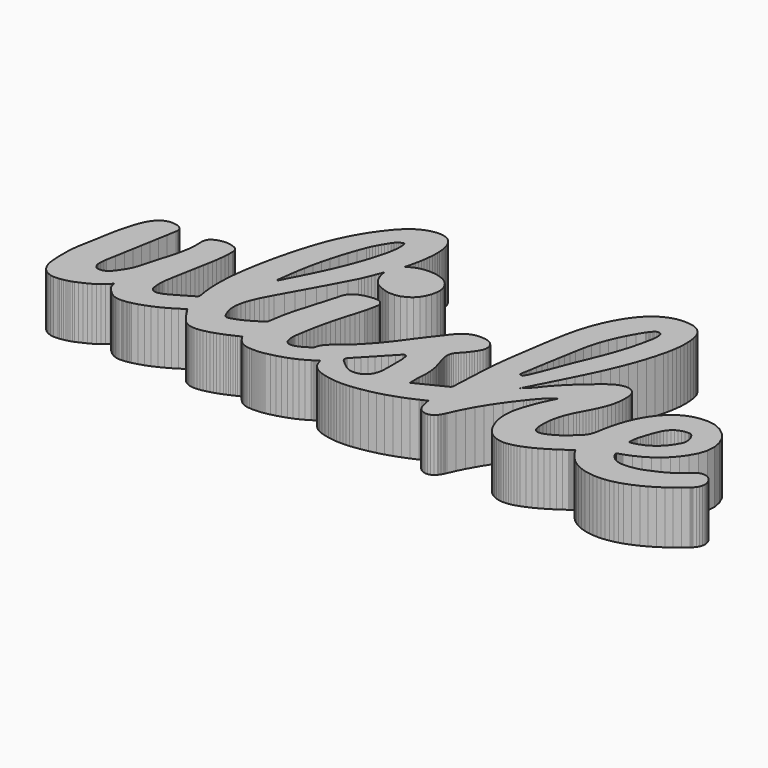
from build123d import *

# Parameters (mm, degrees)
F1_DEPTH = 25
F2_SCALE = 0.12


with BuildPart() as f1:
    # F0 (on Top) → F1 (new body)
    with BuildSketch(Plane.XY):
        Polygon((141.488232, -110.757337), (141.450765, -110.721072), (140.714142, -110.133943), (139.90183, -109.709832), (139.038138, -109.449125), (138.147372, -109.352205), (137.25384, -109.419457), (136.381849, -109.651265), (135.555707, -110.048014), (134.799722, -110.610088), (134.661508, -110.735102), (134.534361, -110.850049), (134.419535, -110.953787), (134.318286, -111.045176), (134.231869, -111.123073), (134.161539, -111.186338), (134.108552, -111.233828), (134.074162, -111.264404), (132.189219, -112.880158), (130.488234, -114.234052), (128.89032, -115.382817), (127.314592, -116.383181), (125.680165, -117.291875), (123.906152, -118.165629), (121.911669, -119.061173), (119.615829, -120.035237), (118.336045, -120.529017), (117.055253, -120.942342), (115.768341, -121.276988), (114.470199, -121.534734), (113.155714, -121.717354), (111.819776, -121.826627), (110.457273, -121.864328), (109.063094, -121.832234), (107.93208, -121.686163), (106.844361, -121.365358), (105.817983, -120.884096), (104.870992, -120.256656), (104.021433, -119.497317), (103.287353, -118.620356), (102.686796, -117.640052), (102.237809, -116.570684), (102.246336, -116.553751), (102.2542, -116.538133), (102.261624, -116.523391), (102.268827, -116.509087), (102.27603, -116.494783), (102.283453, -116.480041), (102.291318, -116.464423), (102.299845, -116.44749), (102.626542, -116.340246), (102.95369, -116.23431), (103.281043, -116.128982), (103.608355, -116.023558), (103.93538, -115.917337), (104.261873, -115.809617), (104.587587, -115.699697), (104.912276, -115.586873), (108.338302, -114.233726), (111.56787, -112.651614), (114.588501, -110.825884), (117.387713, -108.741879), (119.953025, -106.384945), (122.271957, -103.740427), (124.332027, -100.793669), (126.120754, -97.530017), (127.389806, -93.685918), (127.622476, -89.821266), (126.913682, -86.0967), (125.358342, -82.672863), (123.051374, -79.710394), (120.087696, -77.369933), (116.562225, -75.812123), (112.56988, -75.197603), (109.868666, -75.294357), (107.323597, -75.695595), (104.929514, -76.390089), (102.681258, -77.366612), (100.57367, -78.613935), (98.60159, -80.120831), (96.759859, -81.876071), (95.043319, -83.868428), (93.230551, -86.397615), (91.663757, -89.031898), (90.321407, -91.759604), (89.181968, -94.569058), (88.223909, -97.448588), (87.425699, -100.386518), (86.765807, -103.371177), (86.222701, -106.390889), (86.037455, -107.433668), (85.816371, -108.427357), (85.54233, -109.370922), (85.198211, -110.263325), (84.766894, -111.103533), (84.231258, -111.890507), (83.574183, -112.623215), (82.778548, -113.300618), (82.662647, -113.393404), (82.552006, -113.493146), (82.445297, -113.598129), (82.341193, -113.706639), (82.238369, -113.816963), (82.135496, -113.927388), (82.031249, -114.036199), (81.9243, -114.141682), (80.787791, -115.197569), (79.627018, -116.217893), (78.434484, -117.190898), (77.202689, -118.104825), (75.924137, -118.947915), (74.59133, -119.708412), (73.196768, -120.374556), (71.732955, -120.93459), (70.593705, -121.244259), (69.612817, -121.352573), (68.78336, -121.255877), (68.098403, -120.950513), (67.551016, -120.432823), (67.134267, -119.699152), (66.841226, -118.745841), (66.664962, -117.569234), (66.660923, -117.524428), (66.657129, -117.479596), (66.653569, -117.434741), (66.65023, -117.389867), (66.647099, -117.344975), (66.644165, -117.300069), (66.641416, -117.255151), (66.638839, -117.210225), (66.59041, -115.127303), (66.677492, -113.072649), (66.89907, -111.046246), (67.254127, -109.048077), (67.741646, -107.078127), (68.360611, -105.136379), (69.110006, -103.222816), (69.988814, -101.337422), (70.567212, -100.203815), (71.154351, -99.074523), (71.746483, -97.947717), (72.339858, -96.821568), (72.930727, -95.694246), (73.51534, -94.563922), (74.089948, -93.428765), (74.650802, -92.286946), (75.425448, -90.557042), (76.089028, -88.802613), (76.636797, -87.023654), (77.06401, -85.220158), (77.365921, -83.392121), (77.537786, -81.539536), (77.574859, -79.662398), (77.472396, -77.760701), (77.228999, -76.422091), (76.769891, -75.25773), (76.114565, -74.281986), (75.282516, -73.509228), (74.293236, -72.953825), (73.166219, -72.630146), (71.920959, -72.552559), (70.576949, -72.735432), (70.145465, -72.842941), (69.715385, -72.967235), (69.288257, -73.107801), (68.86563, -73.264127), (68.449052, -73.435698), (68.040069, -73.622003), (67.64023, -73.822529), (67.251083, -74.036763), (66.736995, -74.340682), (66.228479, -74.656466), (65.726122, -74.983692), (65.230514, -75.321934), (64.742241, -75.670768), (64.261891, -76.029769), (63.790054, -76.398511), (63.327315, -76.77657), (61.188868, -78.5761), (59.072487, -80.39612), (56.988348, -82.246994), (54.946629, -84.139086), (52.957507, -86.082759), (51.03116, -88.088377), (49.177763, -90.166304), (47.407495, -92.326904), (46.951429, -92.91352), (46.617779, -93.345573), (46.360264, -93.674204), (46.132608, -93.950558), (45.888532, -94.225779), (45.581756, -94.551009), (45.166004, -94.977391), (44.594995, -95.55607), (44.393212, -95.774023), (44.119288, -96.049185), (43.793478, -96.364599), (43.436034, -96.703307), (43.06721, -97.048349), (42.70726, -97.382768), (42.376437, -97.689606), (42.094995, -97.951904), (42.197484, -97.756147), (42.317509, -97.527283), (42.448497, -97.277566), (42.583874, -97.019251), (42.717069, -96.764592), (42.841508, -96.525844), (42.950618, -96.315262), (43.037826, -96.1451), (44.568479, -93.143543), (46.106276, -90.145426), (47.646257, -87.148357), (49.183463, -84.149945), (50.712936, -81.1478), (52.229717, -78.13953), (53.728847, -75.122744), (55.205367, -72.095052), (56.868589, -68.5722), (58.464919, -65.022179), (59.984506, -61.441849), (61.417495, -57.828069), (62.754033, -54.177695), (63.984267, -50.487588), (65.098344, -46.754605), (66.08641, -42.975606), (66.546907, -40.949303), (66.938813, -38.918317), (67.249641, -36.881768), (67.466903, -34.83878), (67.578112, -32.788473), (67.570783, -30.72997), (67.432427, -28.662391), (67.150558, -26.584859), (66.752061, -24.911148), (66.163074, -23.409951), (65.3876, -22.088695), (64.429641, -20.954808), (63.2932, -20.015716), (61.98228, -19.278847), (60.500883, -18.751629), (58.853011, -18.441487), (57.633677, -18.333476), (56.419349, -18.292749), (55.211395, -18.322525), (54.011184, -18.426022), (52.820082, -18.606461), (51.639457, -18.867061), (50.470677, -19.211042), (49.315108, -19.641621), (47.548569, -20.46998), (45.89977, -21.435962), (44.360431, -22.528847), (42.922271, -23.737912), (41.577008, -25.052437), (40.316362, -26.461702), (39.13205, -27.954985), (38.015792, -29.521565), (36.296931, -32.229059), (34.752971, -35.010729), (33.373056, -37.860681), (32.146331, -40.773022), (31.061942, -43.741861), (30.109035, -46.761303), (29.276754, -49.825455), (28.554244, -52.928426), (28.09392, -55.155576), (27.66605, -57.390011), (27.265676, -59.630452), (26.887839, -61.875623), (26.527584, -64.124247), (26.179953, -66.375047), (25.839987, -68.626748), (25.50273, -70.878072), (25.150418, -73.219167), (24.799404, -75.561285), (24.455471, -77.90472), (24.124396, -80.249768), (23.811962, -82.596724), (23.523947, -84.945884), (23.266131, -87.297544), (23.044295, -89.651997), (22.824156, -92.458369), (22.63901, -95.26773), (22.480646, -98.079396), (22.340858, -100.892682), (22.211434, -103.706903), (22.084168, -106.521375), (21.950848, -109.335414), (21.803268, -112.148335), (21.782244, -112.296414), (21.737217, -112.45288), (21.671426, -112.611591), (21.588111, -112.766408), (21.490511, -112.911188), (21.381865, -113.03979), (21.265412, -113.146073), (21.144393, -113.223897), (19.43626, -114.081054), (17.726779, -114.933755), (16.017052, -115.782398), (14.308181, -116.627385), (12.601267, -117.469116), (10.897411, -118.307992), (9.197714, -119.144413), (7.50328, -119.97878), (7.496759, -119.274712), (7.481214, -118.566376), (7.462667, -117.854865), (7.447143, -117.14127), (7.440665, -116.426686), (7.449258, -115.712205), (7.478945, -114.998919), (7.535751, -114.287923), (7.666819, -112.673614), (7.726195, -111.069383), (7.708897, -109.474773), (7.609939, -107.889325), (7.424338, -106.312583), (7.147109, -104.744091), (6.77327, -103.18339), (6.297835, -101.630025), (6.089846, -100.991147), (5.896949, -100.347108), (5.715908, -99.699023), (5.543487, -99.048009), (5.37645, -98.39518), (5.211562, -97.741654), (5.045587, -97.088546), (4.875289, -96.43697), (4.680777, -95.536566), (4.591286, -94.671819), (4.612002, -93.839038), (4.748115, -93.034528), (5.004811, -92.254597), (5.387278, -91.495552), (5.900704, -90.7537), (6.550277, -90.025349), (7.251427, -89.295627), (7.930223, -88.539693), (8.586659, -87.760252), (9.220733, -86.960011), (9.832439, -86.141678), (10.421773, -85.307957), (10.988731, -84.461557), (11.533309, -83.605183), (12.098876, -82.4356), (12.408419, -81.179952), (12.43873, -79.898717), (12.166602, -78.652371), (11.56883, -77.501392), (10.622208, -76.506256), (9.303528, -75.72744), (7.589584, -75.225423), (5.706656, -75.004058), (3.929982, -75.030462), (2.256303, -75.300386), (0.682357, -75.809582), (-0.795115, -76.553803), (-2.179374, -77.528801), (-3.473679, -78.730327), (-4.68129, -80.154134), (-6.009572, -81.893896), (-7.343396, -83.629659), (-8.679022, -85.36412), (-10.012711, -87.099973), (-11.340724, -88.839914), (-12.659322, -90.586639), (-13.964764, -92.342845), (-15.253312, -94.111226), (-17.315924, -96.908601), (-19.441038, -99.644674), (-21.639333, -102.310356), (-23.921487, -104.896558), (-26.298177, -107.394191), (-28.780083, -109.794166), (-31.377881, -112.087396), (-34.10225, -114.26479), (-34.758643, -114.791851), (-35.375819, -115.35486), (-35.944938, -115.957613), (-36.457159, -116.603903), (-36.903641, -117.297522), (-37.275543, -118.042267), (-37.564025, -118.841929), (-37.760245, -119.700302), (-37.775765, -119.766969), (-37.800177, -119.8364), (-37.832334, -119.906506), (-37.871085, -119.975204), (-37.915284, -120.040406), (-37.963781, -120.100027), (-38.015427, -120.15198), (-38.069074, -120.19418), (-38.950437, -120.793552), (-39.834641, -121.387541), (-40.730364, -121.957663), (-41.646288, -122.485434), (-42.591092, -122.95237), (-43.573457, -123.339985), (-44.602062, -123.629797), (-45.685588, -123.803319), (-46.260231, -123.801982), (-46.808846, -123.690363), (-47.320415, -123.478832), (-47.783918, -123.177759), (-48.188337, -122.797511), (-48.522653, -122.348459), (-48.775847, -121.840971), (-48.936901, -121.285417), (-49.033443, -120.772043), (-49.12266, -120.253532), (-49.19958, -119.732118), (-49.25923, -119.210035), (-49.296636, -118.689517), (-49.306826, -118.172797), (-49.284826, -117.662109), (-49.225663, -117.159688), (-48.924625, -115.283383), (-48.617525, -113.407172), (-48.30039, -111.532291), (-47.969247, -109.659978), (-47.620122, -107.79147), (-47.249042, -105.928004), (-46.852035, -104.070818), (-46.425126, -102.22115), (-45.896966, -100.102306), (-45.337324, -97.991068), (-44.753817, -95.88557), (-44.154061, -93.783948), (-43.545674, -91.684337), (-42.936272, -89.584873), (-42.333471, -87.483691), (-41.744889, -85.378926), (-41.55236, -84.663084), (-41.367786, -83.944481), (-41.191834, -83.223346), (-41.025169, -82.499907), (-40.868457, -81.774392), (-40.722364, -81.047029), (-40.587557, -80.318048), (-40.464701, -79.587675), (-40.415835, -78.74616), (-40.536482, -77.965792), (-40.812478, -77.262225), (-41.229661, -76.651114), (-41.773865, -76.148115), (-42.430929, -75.768881), (-43.186688, -75.529068), (-44.02698, -75.44433), (-44.750977, -75.456109), (-45.478535, -75.494426), (-46.20729, -75.558869), (-46.934875, -75.649024), (-47.658925, -75.764479), (-48.377075, -75.904819), (-49.086958, -76.069632), (-49.78621, -76.258504), (-50.980799, -76.661412), (-52.088881, -77.162789), (-53.096298, -77.773051), (-53.988892, -78.502614), (-54.752506, -79.361896), (-55.372981, -80.361314), (-55.83616, -81.511284), (-56.127885, -82.822224), (-56.163784, -83.026814), (-56.210585, -83.229834), (-56.265861, -83.431633), (-56.327187, -83.632558), (-56.392139, -83.832956), (-56.45829, -84.033175), (-56.523215, -84.233563), (-56.584489, -84.434468), (-57.304453, -86.890444), (-58.030272, -89.344869), (-58.757565, -91.798907), (-59.48195, -94.25372), (-60.199044, -96.71047), (-60.904467, -99.170318), (-61.593837, -101.634429), (-62.262772, -104.103963), (-62.562416, -105.3215), (-62.823427, -106.549238), (-63.055177, -107.784759), (-63.267037, -109.025647), (-63.468377, -110.269484), (-63.668568, -111.513855), (-63.876979, -112.756341), (-64.102982, -113.994527), (-64.145529, -114.163274), (-64.207965, -114.335663), (-64.28813, -114.50722), (-64.383866, -114.673474), (-64.493015, -114.829952), (-64.613417, -114.972181), (-64.742915, -115.095689), (-64.87935, -115.196004), (-65.716343, -115.721831), (-66.553963, -116.247688), (-67.393641, -116.770552), (-68.23681, -117.287396), (-69.084903, -117.795197), (-69.939352, -118.29093), (-70.80159, -118.771569), (-71.673051, -119.23409), (-72.299605, -119.541194), (-72.93861, -119.825239), (-73.587827, -120.089773), (-74.245019, -120.338345), (-74.907947, -120.574503), (-75.574373, -120.801796), (-76.24206, -121.023771), (-76.908769, -121.243977), (-77.283163, -121.345716), (-77.648891, -121.396991), (-78.002527, -121.392209), (-78.340646, -121.32578), (-78.659821, -121.192111), (-78.956629, -120.98561), (-79.227643, -120.700686), (-79.469437, -120.331746), (-80.008121, -119.268434), (-80.465385, -118.189483), (-80.837309, -117.094012), (-81.119973, -115.981137), (-81.309456, -114.849978), (-81.401838, -113.699651), (-81.393199, -112.529277), (-81.279618, -111.337971), (-80.921767, -109.367732), (-80.419035, -107.455492), (-79.791455, -105.592949), (-79.05906, -103.771802), (-78.241885, -101.983748), (-77.359962, -100.220485), (-76.433326, -98.473713), (-75.482011, -96.735127), (-73.433367, -93.025015), (-71.380771, -89.316734), (-69.329871, -85.607416), (-67.286317, -81.894192), (-65.255757, -78.174197), (-63.243842, -74.444563), (-61.256219, -70.702421), (-59.298539, -66.944905), (-58.798741, -65.906618), (-58.263249, -64.683306), (-57.706946, -63.335504), (-57.144715, -61.923741), (-56.591439, -60.508551), (-56.062001, -59.150466), (-55.571284, -57.910017), (-55.134171, -56.847737), (-54.922465, -58.057644), (-54.654355, -59.238443), (-54.31909, -60.384747), (-53.90592, -61.491167), (-53.404094, -62.552315), (-52.802861, -63.562801), (-52.091471, -64.517238), (-51.259171, -65.410237), (-50.56725, -65.959719), (-49.698254, -66.478886), (-48.704521, -66.961318), (-47.63839, -67.400594), (-46.552202, -67.790293), (-45.498293, -68.123997), (-44.529003, -68.395285), (-43.696671, -68.597737), (-40.899086, -68.588715), (-38.376713, -68.076849), (-36.146065, -67.108376), (-34.223657, -65.729535), (-32.626, -63.986563), (-31.369608, -61.925697), (-30.470994, -59.593176), (-29.946671, -57.035237), (-29.899324, -55.085162), (-30.234478, -53.258189), (-30.917216, -51.579746), (-31.912621, -50.075261), (-33.185778, -48.77016), (-34.701769, -47.689872), (-36.425677, -46.859822), (-38.322587, -46.30544), (-38.911107, -46.190748), (-39.5047, -46.089804), (-40.102124, -46.00373), (-40.702142, -45.933644), (-41.303512, -45.880667), (-41.904997, -45.845919), (-42.505355, -45.830521), (-43.103349, -45.835591), (-44.411592, -45.911859), (-45.673174, -46.073537), (-46.884769, -46.324719), (-48.043053, -46.669499), (-49.144704, -47.111972), (-50.186397, -47.656232), (-51.164809, -48.306372), (-52.076615, -49.066487), (-51.714452, -47.748109), (-51.375038, -46.422333), (-51.059209, -45.088961), (-50.7678, -43.7478), (-50.501645, -42.398653), (-50.261579, -41.041326), (-50.048437, -39.675624), (-49.863053, -38.30135), (-49.697769, -36.853838), (-49.56879, -35.405837), (-49.487343, -33.958045), (-49.464654, -32.511159), (-49.511948, -31.065875), (-49.640451, -29.622889), (-49.86139, -28.182899), (-50.18599, -26.746602), (-50.732012, -25.118278), (-51.451624, -23.696779), (-52.342292, -22.489429), (-53.401482, -21.503552), (-54.626661, -20.746475), (-56.015293, -20.225521), (-57.564845, -19.948016), (-59.272782, -19.921284), (-60.047405, -19.986565), (-60.825319, -20.09328), (-61.602891, -20.238822), (-62.376489, -20.420583), (-63.142478, -20.635955), (-63.897228, -20.882331), (-64.637105, -21.157102), (-65.358476, -21.457661), (-66.717347, -22.124178), (-68.00506, -22.889221), (-69.227211, -23.74296), (-70.389397, -24.675565), (-71.497216, -25.677202), (-72.556263, -26.738043), (-73.572136, -27.848254), (-74.550431, -28.998006), (-76.88623, -31.983986), (-79.053773, -35.063632), (-81.058466, -38.232939), (-82.905717, -41.487904), (-84.600933, -44.824523), (-86.149522, -48.238791), (-87.55689, -51.726705), (-88.828446, -55.284261), (-90.049988, -59.063082), (-91.18643, -62.863612), (-92.239829, -66.685368), (-93.212243, -70.527867), (-94.10573, -74.390628), (-94.922348, -78.273169), (-95.664154, -82.175008), (-96.333207, -86.095662), (-96.84987, -89.58455), (-97.263434, -93.07076), (-97.556902, -96.555436), (-97.713273, -100.039723), (-97.71555, -103.524766), (-97.546733, -107.011708), (-97.189824, -110.501694), (-96.627824, -113.995869), (-96.619678, -114.134005), (-96.64121, -114.289052), (-96.688316, -114.452922), (-96.75689, -114.617528), (-96.842828, -114.774781), (-96.942024, -114.916592), (-97.050374, -115.034875), (-97.163773, -115.121541), (-98.410359, -115.862008), (-99.658395, -116.600225), (-100.908468, -117.335045), (-102.161164, -118.06532), (-103.417071, -118.789904), (-104.676774, -119.507652), (-105.94086, -120.217416), (-107.209916, -120.91805), (-107.596175, -121.112768), (-107.996629, -121.284831), (-108.408584, -121.436906), (-108.829343, -121.571656), (-109.25621, -121.691748), (-109.686491, -121.799846), (-110.117488, -121.898616), (-110.546507, -121.990723), (-111.178262, -122.05856), (-111.786166, -122.000255), (-112.355471, -121.825357), (-112.871428, -121.543413), (-113.319286, -121.163973), (-113.684296, -120.696584), (-113.951708, -120.150795), (-114.106774, -119.536154), (-114.21454, -118.76311), (-114.310502, -117.983373), (-114.389235, -117.199617), (-114.445317, -116.414517), (-114.473324, -115.630748), (-114.467835, -114.850984), (-114.423425, -114.077899), (-114.334672, -113.314168), (-114.002811, -111.16923), (-113.648602, -109.027587), (-113.276444, -106.888601), (-112.890733, -104.751637), (-112.495866, -102.616058), (-112.096242, -100.481227), (-111.696257, -98.346507), (-111.300309, -96.211262), (-110.908116, -94.105872), (-110.517321, -92.000896), (-110.14534, -89.89379), (-109.809594, -87.78201), (-109.527501, -85.663011), (-109.316479, -83.53425), (-109.193947, -81.393182), (-109.177323, -79.237263), (-109.226359, -78.56415), (-109.346746, -77.953575), (-109.539605, -77.40423), (-109.806054, -76.914807), (-110.147213, -76.483998), (-110.564201, -76.110494), (-111.058138, -75.792988), (-111.630143, -75.530171), (-112.838731, -75.129988), (-114.043072, -74.863708), (-115.242153, -74.731638), (-116.43496, -74.734082), (-117.620481, -74.871346), (-118.797701, -75.143736), (-119.965607, -75.551556), (-121.123185, -76.095113), (-121.702862, -76.469449), (-122.177277, -76.919509), (-122.552662, -77.446039), (-122.835254, -78.049788), (-123.031285, -78.731504), (-123.146989, -79.491936), (-123.188602, -80.331831), (-123.162356, -81.251938), (-123.132646, -84.190356), (-123.371326, -87.076233), (-123.831074, -89.927053), (-124.464567, -92.760303), (-125.224484, -95.593468), (-126.0635, -98.444036), (-126.934294, -101.32949), (-127.789543, -104.267317), (-128.220048, -105.867871), (-128.603815, -107.3549), (-128.979921, -108.758101), (-129.387448, -110.107172), (-129.865473, -111.431807), (-130.453077, -112.761704), (-131.189339, -114.12656), (-132.113338, -115.55607), (-132.65975, -116.34905), (-133.221867, -117.158429), (-133.812736, -117.954987), (-134.445405, -118.709503), (-135.132919, -119.392756), (-135.888326, -119.975527), (-136.724672, -120.428594), (-137.655005, -120.722737), (-138.297262, -120.824921), (-138.904805, -120.852408), (-139.473923, -120.798931), (-140.000909, -120.658223), (-140.482052, -120.424016), (-140.913644, -120.090045), (-141.291976, -119.650041), (-141.613338, -119.097737), (-141.849236, -118.452193), (-141.994132, -117.728533), (-142.061591, -116.950365), (-142.065175, -116.141294), (-142.018449, -115.324928), (-141.934974, -114.524872), (-141.828315, -113.764734), (-141.712035, -113.068121), (-140.93467, -108.682927), (-140.183008, -104.433954), (-139.448823, -100.275732), (-138.723886, -96.162796), (-137.999967, -92.049675), (-137.268837, -87.890904), (-136.52227, -83.641014), (-135.752035, -79.254538), (-135.699423, -78.591258), (-135.770352, -77.947884), (-135.955694, -77.337717), (-136.246318, -76.774057), (-136.633096, -76.270205), (-137.1069, -75.839463), (-137.6586, -75.495131), (-138.279068, -75.25051), (-139.837896, -74.895), (-141.304838, -74.767626), (-142.683087, -74.870384), (-143.975838, -75.205268), (-145.186284, -75.774273), (-146.317618, -76.579394), (-147.373036, -77.622626), (-148.355729, -78.905965), (-149.054232, -80.034429), (-149.662024, -81.198032), (-150.193069, -82.392052), (-150.661331, -83.611767), (-151.080772, -84.852457), (-151.465357, -86.109399), (-151.829047, -87.377873), (-152.185807, -88.653157), (-152.67152, -90.480536), (-153.097325, -92.264425), (-153.475323, -94.020106), (-153.817613, -95.76286), (-154.136293, -97.507969), (-154.443463, -99.270714), (-154.751223, -101.066376), (-155.071671, -102.910237), (-155.391711, -104.643928), (-155.734915, -106.422014), (-156.080631, -108.231842), (-156.408212, -110.060757), (-156.697005, -111.896108), (-156.926361, -113.725239), (-157.07563, -115.535497), (-157.124162, -117.314229), (-157.123325, -118.615693), (-157.127, -119.920419), (-157.125101, -121.226168), (-157.107545, -122.530705), (-157.064245, -123.831792), (-156.985116, -125.12719), (-156.860073, -126.414664), (-156.679032, -127.691975), (-156.189986, -129.682922), (-155.437771, -131.438525), (-154.441114, -132.939906), (-153.218743, -134.168187), (-151.789386, -135.104489), (-150.17177, -135.729934), (-148.384623, -136.025642), (-146.446671, -135.972737), (-145.69105, -135.874355), (-144.869209, -135.746357), (-144.005389, -135.590077), (-143.12383, -135.406846), (-142.248772, -135.197997), (-141.404455, -134.964863), (-140.615119, -134.708777), (-139.905005, -134.43107), (-138.399894, -133.771601), (-136.875959, -133.078958), (-135.35538, -132.3401), (-133.860338, -131.541991), (-132.41301, -130.67159), (-131.035578, -129.71586), (-129.750221, -128.661762), (-128.579118, -127.496256), (-128.465615, -127.368624), (-128.352296, -127.237778), (-128.237294, -127.102306), (-128.11874, -126.960793), (-127.994768, -126.811827), (-127.863511, -126.653993), (-127.723101, -126.485879), (-127.571671, -126.30607), (-127.504897, -126.566886), (-127.445723, -126.809958), (-127.391708, -127.037288), (-127.340409, -127.250879), (-127.289385, -127.452735), (-127.236194, -127.644858), (-127.178393, -127.829249), (-127.113541, -128.007914), (-126.780305, -128.779905), (-126.434117, -129.442381), (-126.075483, -130.013592), (-125.70491, -130.511787), (-125.322902, -130.955216), (-124.929967, -131.362129), (-124.52661, -131.750775), (-124.113338, -132.139404), (-123.5096, -132.682197), (-122.838915, -133.216485), (-122.097626, -133.719793), (-121.282076, -134.169645), (-120.388607, -134.543568), (-119.413563, -134.819085), (-118.353285, -134.973722), (-117.204118, -134.985005), (-116.653038, -134.948162), (-116.101458, -134.900043), (-115.550145, -134.840399), (-114.999863, -134.768979), (-114.451378, -134.685534), (-113.905455, -134.589815), (-113.36286, -134.481572), (-112.824357, -134.360554), (-110.314882, -133.68445), (-107.867996, -132.871891), (-105.479165, -131.933079), (-103.143853, -130.878217), (-100.857525, -129.717505), (-98.615644, -128.461145), (-96.413677, -127.11934), (-94.247086, -125.70229), (-94.141778, -125.63292), (-94.037992, -125.567398), (-93.938975, -125.507018), (-93.84797, -125.453076), (-93.768223, -125.406868), (-93.70298, -125.369688), (-93.655485, -125.342832), (-93.628983, -125.327595), (-93.00958, -126.24055), (-92.403958, -127.150531), (-91.806021, -128.054615), (-91.209672, -128.949879), (-90.608814, -129.833403), (-89.99735, -130.702262), (-89.369183, -131.553534), (-88.718217, -132.384297), (-87.958458, -133.221597), (-87.136964, -133.935361), (-86.254747, -134.524361), (-85.312821, -134.98737), (-84.312199, -135.323161), (-83.253892, -135.530507), (-82.138914, -135.608179), (-80.968278, -135.554951), (-79.603417, -135.385488), (-78.257195, -135.153586), (-76.928026, -134.864124), (-75.61432, -134.521977), (-74.31449, -134.132023), (-73.026948, -133.699137), (-71.750106, -133.228198), (-70.482377, -132.72408), (-69.661855, -132.380327), (-68.845546, -132.026599), (-68.032638, -131.665154), (-67.222321, -131.298253), (-66.413784, -130.928153), (-65.606215, -130.557112), (-64.798804, -130.187391), (-63.990739, -129.821248), (-63.194475, -131.101461), (-62.37978, -132.201575), (-61.528983, -133.128542), (-60.624413, -133.889317), (-59.648401, -134.490853), (-58.583277, -134.940104), (-57.411368, -135.244024), (-56.115006, -135.409566), (-55.239673, -135.461601), (-54.358206, -135.490363), (-53.473416, -135.493802), (-52.588113, -135.469868), (-51.705107, -135.416512), (-50.827209, -135.331683), (-49.957229, -135.213331), (-49.097978, -135.059407), (-46.867218, -134.57458), (-44.668004, -134.021374), (-42.503666, -133.390086), (-40.377534, -132.67101), (-38.292938, -131.854441), (-36.253209, -130.930676), (-34.261677, -129.89001), (-32.321671, -128.722737), (-31.964961, -128.491507), (-31.614039, -128.261768), (-31.266042, -128.031883), (-30.918109, -127.800216), (-30.567378, -127.565131), (-30.210987, -127.324989), (-29.846074, -127.078156), (-29.469777, -126.822993), (-28.831681, -128.865056), (-27.965816, -130.542358), (-26.884486, -131.900808), (-25.599994, -132.986313), (-24.124643, -133.844781), (-22.470736, -134.522121), (-20.650577, -135.064241), (-18.676469, -135.517049), (-17.20635, -135.782657), (-15.733641, -135.975048), (-14.258675, -136.099093), (-12.781785, -136.159665), (-11.303304, -136.161634), (-9.823565, -136.109873), (-8.342903, -136.009252), (-6.861649, -135.864644), (-3.545645, -135.415605), (-0.272858, -134.816697), (2.958592, -134.074778), (6.150588, -133.196706), (9.305014, -132.189338), (12.423751, -131.059533), (15.508682, -129.814148), (18.56169, -128.460042), (18.961, -128.272362), (19.359784, -128.079997), (19.75979, -127.883189), (20.162765, -127.682179), (20.570454, -127.47721), (20.984605, -127.268523), (21.406964, -127.05636), (21.839278, -126.840962), (21.86502, -127.077103), (21.886011, -127.299333), (21.904489, -127.509235), (21.922691, -127.708386), (21.942852, -127.898368), (21.967209, -128.080761), (21.997999, -128.257144), (22.03746, -128.429097), (22.173754, -128.977356), (22.301966, -129.53023), (22.428548, -130.084448), (22.559954, -130.636739), (22.702637, -131.18383), (22.86305, -131.72245), (23.047647, -132.249328), (23.26288, -132.761192), (23.963391, -133.864116), (24.882156, -134.698943), (25.957901, -135.259211), (27.129351, -135.538457), (28.335231, -135.530218), (29.514269, -135.22803), (30.605189, -134.625431), (31.546719, -133.715958), (31.824062, -133.351469), (32.088099, -132.973918), (32.338911, -132.584988), (32.576576, -132.186365), (32.801177, -131.779734), (33.012791, -131.366781), (33.2115, -130.949189), (33.397384, -130.528645), (34.996249, -126.968749), (36.686727, -123.570616), (38.474917, -120.302588), (40.366917, -117.13301), (42.368826, -114.030226), (44.486743, -110.962579), (46.726767, -107.898412), (49.094995, -104.80607), (49.881349, -103.803065), (50.619715, -102.8759), (51.335588, -102.001965), (52.054468, -101.15865), (52.801851, -100.323347), (53.603235, -99.473444), (54.484117, -98.586333), (55.469995, -97.639404), (55.718813, -97.409469), (56.051307, -97.11068), (56.443638, -96.76811), (56.871966, -96.406829), (57.312454, -96.051909), (57.741264, -95.72842), (58.134555, -95.461433), (58.46849, -95.276021), (57.565372, -97.032158), (56.701566, -98.801384), (55.877182, -100.584461), (55.09233, -102.382153), (54.347121, -104.195223), (53.641664, -106.024435), (52.976069, -107.870551), (52.350448, -109.734334), (51.706548, -112.006023), (51.254048, -114.266743), (51.002879, -116.51634), (50.962974, -118.754658), (51.144263, -120.981544), (51.556677, -123.196843), (52.210148, -125.4004), (53.114608, -127.592061), (53.835301, -128.990712), (54.643896, -130.298314), (55.551149, -131.499623), (56.567817, -132.579396), (57.704656, -133.522389), (58.972424, -134.313359), (60.381876, -134.937062), (61.943771, -135.378255), (63.106342, -135.561006), (64.258871, -135.626879), (65.401843, -135.588186), (66.535743, -135.457234), (67.661057, -135.246334), (68.778271, -134.967795), (69.88787, -134.633927), (70.99034, -134.257039), (73.139261, -133.417476), (75.228627, -132.472067), (77.265531, -131.433436), (79.257064, -130.314206), (81.210316, -129.127001), (83.132379, -127.884445), (85.030343, -126.599161), (86.9113, -125.283772), (87.161534, -125.10645), (87.411975, -124.928441), (87.663142, -124.749493), (87.915557, -124.569356), (88.16974, -124.387776), (88.426211, -124.204503), (88.685493, -124.019284), (88.948104, -123.831868), (89.059878, -124.018203), (89.164668, -124.193037), (89.263502, -124.357996), (89.357406, -124.514706), (89.447407, -124.664793), (89.534534, -124.809883), (89.619812, -124.951601), (89.704269, -125.091573), (91.067224, -127.126941), (92.572647, -128.953216), (94.222931, -130.566602), (96.020469, -131.9633), (97.967652, -133.139513), (100.066874, -134.091444), (102.320526, -134.815296), (104.731002, -135.307271), (106.634083, -135.526312), (108.523915, -135.612803), (110.400825, -135.573292), (112.265136, -135.414326), (114.117173, -135.142453), (115.957261, -134.76422), (117.785725, -134.286174), (119.602889, -133.714864), (122.566234, -132.598699), (125.425266, -131.310524), (128.187592, -129.863406), (130.860816, -128.270413), (133.452544, -126.544615), (135.970381, -124.699079), (138.421932, -122.746875), (140.814803, -120.70107), (140.916502, -120.611072), (141.017969, -120.520808), (141.119214, -120.430281), (141.220246, -120.339496), (141.321073, -120.248458), (141.421704, -120.157171), (141.522149, -120.065641), (141.622416, -119.973871), (142.482345, -119.001996), (143.10258, -117.909373), (143.482409, -116.735171), (143.621122, -115.518555), (143.518009, -114.298693), (143.172361, -113.114751), (142.583465, -112.005897), (141.750612, -111.011296), (141.713117, -110.975004), (141.675626, -110.938717), (141.638139, -110.902433), (141.600656, -110.866153), (141.563178, -110.829877), (141.525703, -110.793605), align=None)
        Polygon((-23.056432, -119.221412), (-22.852723, -118.95928), (-21.107935, -117.126621), (-19.358418, -115.288997), (-17.602238, -113.444377), (-15.837466, -111.590734), (-14.062169, -109.726039), (-12.274417, -107.848261), (-10.472277, -105.955374), (-8.65382, -104.045347), (-8.421805, -103.861284), (-8.163152, -103.75527), (-7.892914, -103.723262), (-7.626144, -103.761213), (-7.377897, -103.86508), (-7.163226, -104.030818), (-6.997186, -104.25438), (-6.89483, -104.531724), (-6.826223, -104.853752), (-6.761612, -105.171028), (-6.702211, -105.484285), (-6.64923, -105.794255), (-6.603883, -106.10167), (-6.567382, -106.407263), (-6.54094, -106.711766), (-6.525768, -107.015911), (-6.492771, -108.314601), (-6.470985, -109.613733), (-6.459299, -110.913189), (-6.4566, -112.212852), (-6.461776, -113.512604), (-6.473716, -114.812329), (-6.491305, -116.111909), (-6.513434, -117.411226), (-6.528367, -117.856587), (-6.556744, -118.303448), (-6.598585, -118.750658), (-6.653909, -119.197065), (-6.722737, -119.641519), (-6.805088, -120.082868), (-6.900983, -120.51996), (-7.010441, -120.951643), (-7.659696, -122.572215), (-8.625189, -123.941603), (-9.847303, -125.034043), (-11.266422, -125.823771), (-12.822928, -126.285025), (-14.457204, -126.39204), (-16.109635, -126.119052), (-17.720602, -125.440298), (-18.200484, -125.149277), (-18.666244, -124.832476), (-19.120303, -124.494781), (-19.56508, -124.141074), (-20.002996, -123.77624), (-20.43647, -123.405162), (-20.867922, -123.032725), (-21.299772, -122.663811), (-21.491667, -122.49946), (-21.681623, -122.332448), (-21.870053, -122.162897), (-22.057367, -121.990932), (-22.243979, -121.816674), (-22.4303, -121.640247), (-22.616742, -121.461773), (-22.803717, -121.281377), (-23.018118, -121.027816), (-23.173458, -120.745246), (-23.269513, -120.442928), (-23.30606, -120.130125), (-23.282878, -119.816096), (-23.199742, -119.510105), align=None, mode=Mode.SUBTRACT)
        Polygon((100.608817, -106.400627), (100.461688, -106.390862), (100.506635, -105.809675), (100.537982, -105.235772), (100.564259, -104.67008), (100.594, -104.113525), (100.635735, -103.567036), (100.697996, -103.031539), (100.789314, -102.507962), (100.918221, -101.997232), (101.270638, -100.824026), (101.630013, -99.651199), (102.000235, -98.481078), (102.385193, -97.315989), (102.788773, -96.15826), (103.214865, -95.010216), (103.667356, -93.874185), (104.150135, -92.752493), (104.829224, -91.451946), (105.630692, -90.307897), (106.553102, -89.324476), (107.595016, -88.505813), (108.754997, -87.856037), (110.031608, -87.379279), (111.423413, -87.079669), (112.928973, -86.961336), (113.316627, -86.973627), (113.681308, -87.024642), (114.022597, -87.115427), (114.340075, -87.24703), (114.633325, -87.420496), (114.901927, -87.636873), (115.145463, -87.897209), (115.363514, -88.202549), (115.845611, -89.046542), (116.240287, -89.90741), (116.535381, -90.782122), (116.718729, -91.667644), (116.778168, -92.560943), (116.701534, -93.458986), (116.476664, -94.358739), (116.091395, -95.257171), (114.892408, -97.318664), (113.543599, -99.200054), (112.041277, -100.894462), (110.381749, -102.395012), (108.561324, -103.694826), (106.576309, -104.787026), (104.423013, -105.664736), (102.097743, -106.321077), (101.995543, -106.342726), (101.892668, -106.361919), (101.789243, -106.378825), (101.685393, -106.393615), (101.581242, -106.406459), (101.476915, -106.417526), (101.372536, -106.426987), (101.268231, -106.435012), (101.195623, -106.438052), (101.120126, -106.437415), (101.039156, -106.433715), (100.950126, -106.427571), (100.85045, -106.419597), (100.737542, -106.410411), align=None, mode=Mode.SUBTRACT)
        Polygon((-82.231084, -86.462299), (-82.289237, -86.449966), (-82.120877, -85.207685), (-81.955131, -83.965002), (-81.79027, -82.722183), (-81.624566, -81.479495), (-81.456289, -80.237203), (-81.28371, -78.995575), (-81.1051, -77.754876), (-80.918729, -76.515374), (-80.247272, -72.55177), (-79.460843, -68.618336), (-78.562687, -64.71475), (-77.556043, -60.840691), (-76.444156, -56.995836), (-75.230266, -53.179864), (-73.917617, -49.392453), (-72.50945, -45.633282), (-72.042778, -44.511702), (-71.527157, -43.408061), (-70.97075, -42.320031), (-70.381722, -41.245286), (-69.768236, -40.181497), (-69.138456, -39.126339), (-68.500547, -38.077484), (-67.862672, -37.032605), (-67.60461, -36.651366), (-67.309606, -36.28819), (-66.983582, -35.942526), (-66.632458, -35.613821), (-66.262155, -35.301524), (-65.878595, -35.005082), (-65.487698, -34.723944), (-65.095385, -34.457558), (-64.69622, -34.222815), (-64.357349, -34.089336), (-64.074317, -34.056618), (-63.842664, -34.124158), (-63.657934, -34.29145), (-63.515668, -34.557991), (-63.411409, -34.923277), (-63.3407, -35.386804), (-63.242181, -36.839553), (-63.252564, -38.279407), (-63.357204, -39.707714), (-63.541457, -41.125823), (-63.790677, -42.535083), (-64.09022, -43.936843), (-64.425441, -45.332451), (-64.781696, -46.723257), (-65.772102, -50.261756), (-66.879933, -53.755591), (-68.094636, -57.208554), (-69.405654, -60.624438), (-70.802432, -64.007036), (-72.274415, -67.360139), (-73.811048, -70.687542), (-75.401776, -73.993037), (-76.183331, -75.572884), (-76.97579, -77.14739), (-77.776732, -78.717741), (-78.583738, -80.285121), (-79.394389, -81.850716), (-80.206264, -83.415711), (-81.016944, -84.98129), (-81.82401, -86.548638), (-81.882164, -86.536303), (-81.940317, -86.523968), (-81.99847, -86.511634), (-82.056624, -86.499299), (-82.114777, -86.486965), (-82.172931, -86.474632), align=None, mode=Mode.SUBTRACT)
        Polygon((35.044087, -89.273228), (34.959579, -89.253987), (35.080917, -88.394684), (35.194764, -87.672002), (35.304273, -87.0405), (35.412596, -86.454736), (35.522886, -85.86927), (35.638295, -85.238659), (35.761975, -84.517462), (35.897079, -83.660237), (36.319433, -80.953599), (36.764489, -78.252621), (37.225726, -75.555583), (37.69662, -72.860761), (38.170651, -70.166434), (38.641295, -67.470879), (39.102031, -64.772375), (39.546336, -62.069198), (40.268351, -58.192529), (41.163798, -54.485658), (42.237508, -50.917263), (43.494314, -47.456019), (44.93905, -44.070602), (46.576548, -40.729688), (48.411641, -37.401952), (50.449162, -34.05607), (50.661442, -33.735959), (50.897644, -33.404416), (51.152758, -33.067598), (51.421777, -32.731662), (51.69969, -32.402763), (51.981489, -32.08706), (52.262165, -31.790706), (52.536708, -31.519861), (52.970113, -31.201716), (53.44656, -31.010051), (53.939941, -30.941164), (54.424151, -30.991352), (54.873084, -31.156915), (55.260632, -31.434151), (55.56069, -31.819357), (55.74715, -32.308832), (55.912366, -33.236755), (55.983952, -34.097599), (55.976375, -34.913431), (55.904104, -35.706322), (55.781606, -36.498341), (55.623349, -37.311556), (55.443801, -38.168036), (55.25743, -39.08985), (54.560455, -42.366447), (53.745136, -45.604818), (52.822883, -48.808534), (51.805107, -51.98117), (50.703219, -55.126299), (49.528629, -58.247492), (48.29275, -61.348325), (47.006991, -64.432368), (45.709534, -67.547908), (44.548553, -70.440883), (43.477927, -73.185212), (42.451532, -75.854817), (41.423248, -78.523618), (40.34695, -81.265536), (39.176518, -84.154491), (37.865829, -87.264404), (37.776304, -87.443384), (37.624316, -87.719567), (37.430449, -88.060448), (37.215286, -88.433526), (36.999409, -88.806297), (36.803402, -89.146257), (36.647847, -89.420905), (36.553329, -89.597737), (36.468816, -89.578497), (36.285982, -89.538918), (36.037602, -89.48578), (35.756448, -89.425862), (35.475295, -89.365945), (35.226917, -89.312807), align=None, mode=Mode.SUBTRACT)
    extrude(amount=F1_DEPTH)


with BuildPart() as f1_1:
    # F2: moved
    add(f1.part.scale(F2_SCALE))


solid = f1_1.part
